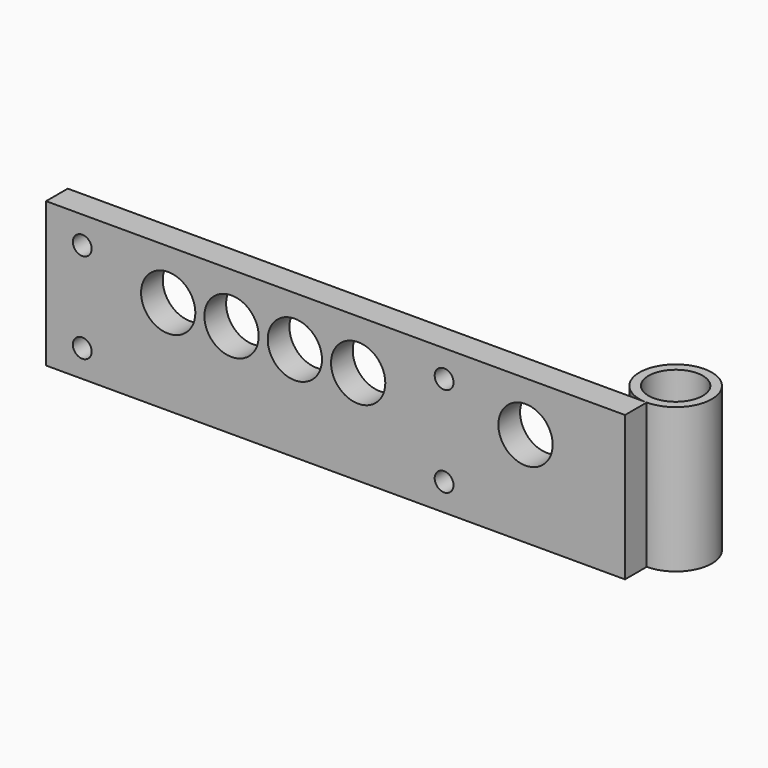
from build123d import *

# Parameters (mm, degrees)
F0_W     = 203.2
F0_H     = 50.8
F0_R     = 3.302
F0_R_2   = 9.525
F1_DEPTH = 9.525
F2_R     = 12.7
F2_R_2   = 9.525
F3_DEPTH = 50.8


with BuildPart() as f1:
    # F0 (on Front) → F1 (new body)
    with BuildSketch(Plane.XZ):
        with Locations((101.6, 25.4)):
            Rectangle(F0_W, F0_H)
        with Locations((12.7, 9.525)):
            Circle(F0_R, mode=Mode.SUBTRACT)
        with Locations((139.7, 9.525)):
            Circle(F0_R, mode=Mode.SUBTRACT)
        with Locations((42.8625, 33.3375)):
            Circle(F0_R_2, mode=Mode.SUBTRACT)
        with Locations((65.0875, 33.3375)):
            Circle(F0_R_2, mode=Mode.SUBTRACT)
        with Locations((87.3125, 33.3375)):
            Circle(F0_R_2, mode=Mode.SUBTRACT)
        with Locations((12.7, 41.275)):
            Circle(F0_R, mode=Mode.SUBTRACT)
        with Locations((109.5375, 33.3375)):
            Circle(F0_R_2, mode=Mode.SUBTRACT)
        with Locations((168.275, 33.3375)):
            Circle(F0_R_2, mode=Mode.SUBTRACT)
        with Locations((139.7, 41.275)):
            Circle(F0_R, mode=Mode.SUBTRACT)
    extrude(amount=-F1_DEPTH)


with BuildPart() as f3:
    # F2 (on Top) → F3 (new body)
    with BuildSketch(Plane.XY):
        with Locations((203.2, 22.225)):
            Circle(F2_R)
        with Locations((203.2, 22.225)):
            Circle(F2_R_2, mode=Mode.SUBTRACT)
    extrude(amount=F3_DEPTH)


solid = Compound([f1.part, f3.part])
